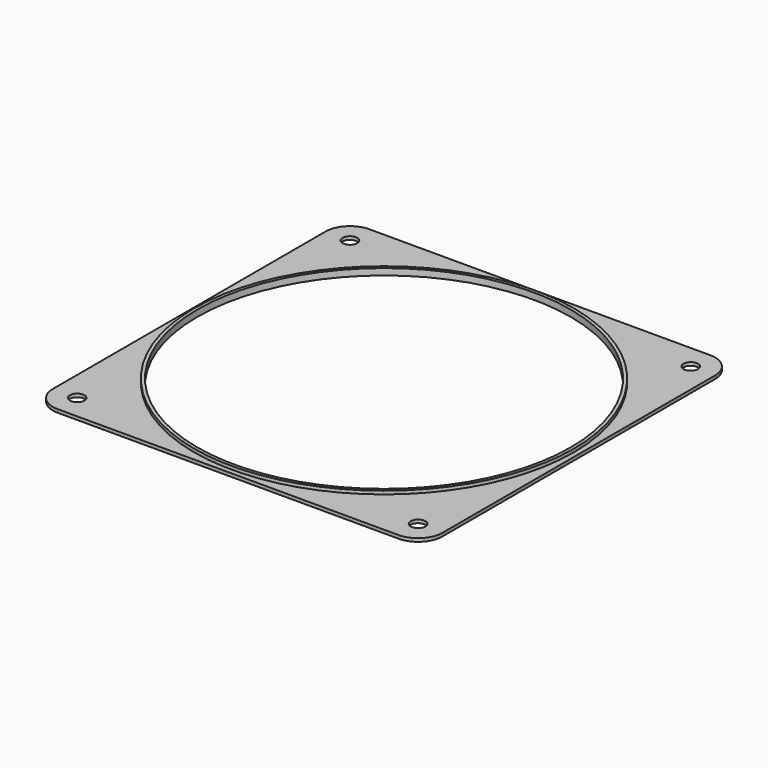
from build123d import *

# Parameters (mm, degrees)
F0_R     = 2.25
F0_R_2   = 58.5
F1_DEPTH = 1
F0_R_3   = 57.5
F2_DEPTH = 2


with BuildPart() as f1:
    # F0 (on Top) → F1 (new body)
    with BuildSketch(Plane.XY):
        with BuildLine():
            Line((52.5, 60), (-52.5, 60))
            ThreePointArc((-52.5, 60), (-57.803301, 57.803301), (-60, 52.5))
            Line((-60, 52.5), (-60, -52.5))
            ThreePointArc((-60, -52.5), (-57.803301, -57.803301), (-52.5, -60))
            Line((-52.5, -60), (52.5, -60))
            ThreePointArc((52.5, -60), (57.803301, -57.803301), (60, -52.5))
            Line((60, -52.5), (60, 52.5))
            ThreePointArc((60, 52.5), (57.803301, 57.803301), (52.5, 60))
        make_face()
        with Locations((-52.5, -52.5)):
            Circle(F0_R, mode=Mode.SUBTRACT)
        with Locations((52.5, -52.5)):
            Circle(F0_R, mode=Mode.SUBTRACT)
        with Locations((-52.5, 52.5)):
            Circle(F0_R, mode=Mode.SUBTRACT)
        Circle(F0_R_2, mode=Mode.SUBTRACT)
        with Locations((52.5, 52.5)):
            Circle(F0_R, mode=Mode.SUBTRACT)
    extrude(amount=F1_DEPTH)

    # F0 (on Top) → F2 (join)
    with BuildSketch(Plane.XY):
        Circle(F0_R_2)
        Circle(F0_R_3, mode=Mode.SUBTRACT)
    extrude(amount=F2_DEPTH)


solid = f1.part
